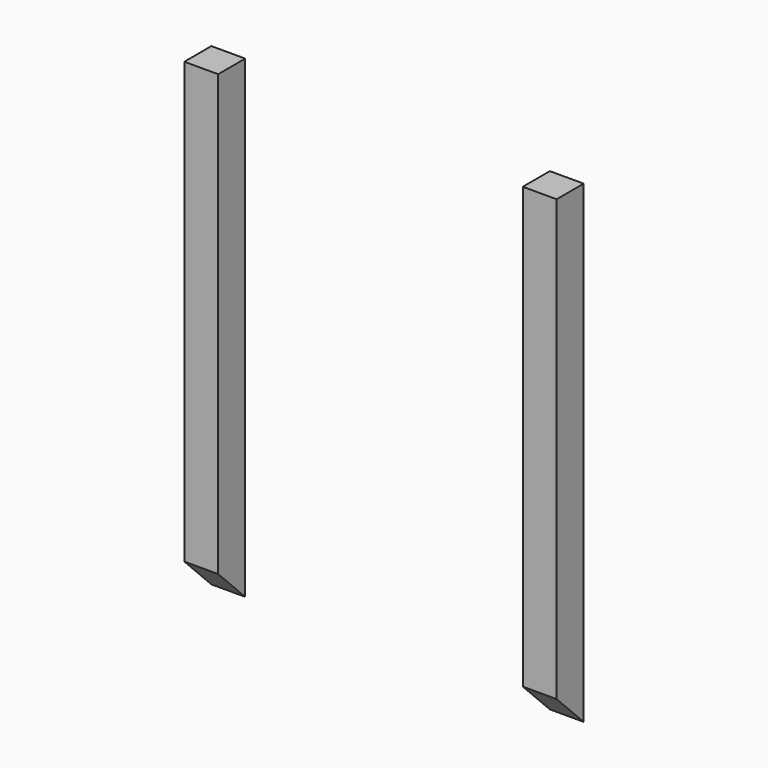
from build123d import *

# Parameters (mm, degrees)
EXTRUDE023_DEPTH = 20
SKETCH019_W      = 1
SKETCH019_H      = 1
EXTRUDE019_DEPTH = 14


with BuildPart() as extrude023:
    # Sketch027 → Extrude023 (new body)
    with BuildSketch(Plane.YZ.offset(84)):
        Polygon((-25, 1), (-22, -2), (-25, -2), align=None)
    extrude(amount=-EXTRUDE023_DEPTH)


with BuildPart() as cut004:
    # Sketch019 → Extrude019 (new body)
    with BuildSketch(Plane.XY.offset(-1)):
        with Locations((68, -23.5)):
            Rectangle(SKETCH019_W, SKETCH019_H)
        with Locations((78, -23.5)):
            Rectangle(SKETCH019_W, SKETCH019_H)
    extrude(amount=EXTRUDE019_DEPTH)

    # Cut004: cut Extrude023
    add(extrude023.part, mode=Mode.SUBTRACT)


solid = cut004.part
